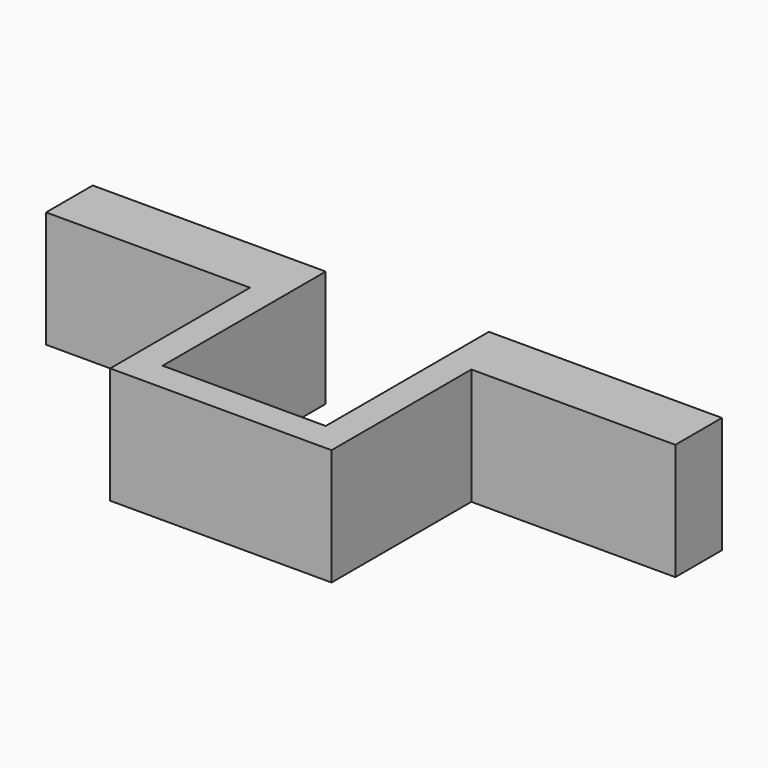
from build123d import *

# Parameters (mm, degrees)
F0_W     = 17.5
F0_H     = 5
F0_W_2   = 2.5
F0_H_2   = 12.5
F0_H_3   = 2.5
F0_W_3   = 14
F1_DEPTH = 10


with BuildPart() as f1:
    # F0 (on Top) → F1 (new body)
    with BuildSketch(Plane.XY):
        with Locations((4.695069, 9.359363)):
            Rectangle(F0_W, F0_H)
        with Locations((14.695069, 9.359363)):
            Rectangle(F0_W_2, F0_H)
        with Locations((14.695069, 0.609363)):
            Rectangle(F0_W_2, F0_H_2)
        with Locations((14.695069, -6.890637)):
            Rectangle(F0_W_2, F0_H_3)
        with Locations((22.945069, -6.890637)):
            Rectangle(F0_W_3, F0_H_3)
        with Locations((31.195069, 0.609363)):
            Rectangle(F0_W_2, F0_H_2)
        with Locations((31.195069, -6.890637)):
            Rectangle(F0_W_2, F0_H_3)
        with Locations((31.195069, 9.359363)):
            Rectangle(F0_W_2, F0_H)
        with Locations((41.195069, 9.359363)):
            Rectangle(F0_W, F0_H)
    extrude(amount=F1_DEPTH)


solid = f1.part
